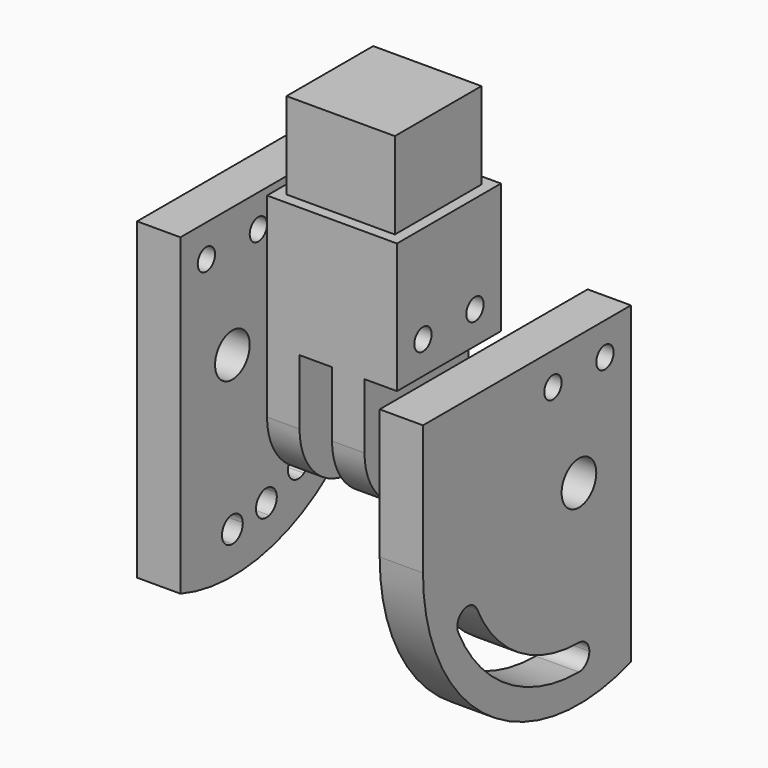
from build123d import *

# Parameters (mm, degrees)
F0_W      = 76.2
F0_H      = 76.2
F1_DEPTH  = 38.1
F2_DEPTH  = 19.05
F3_START  = -19.05
F3_DEPTH  = 19.05
F4_W      = 63.5
F4_H      = 63.5
F5_DEPTH  = 50.8
F7_START  = 50.8
F6_W      = 76.2
F6_H      = 38.1
F6_R      = 6.35
F7_DEPTH  = 25.4
F8_DEPTH  = 76.2
F10_START = 50.8
F9_W      = 76.2
F9_H      = 76.2
F9_R      = 6.35
F10_DEPTH = 25.4


with BuildPart() as f1:
    # F0 (on Right) → F1 (new body, symmetric)
    with BuildSketch(Plane.YZ):
        with Locations((0, 19.05)):
            Rectangle(F0_W, F0_H)
    extrude(amount=F1_DEPTH, both=True)

    # F0 (on Right) → F2 (join)
    with BuildSketch(Plane.YZ):
        with BuildLine():
            Line((6.35, -57.15), (38.1, -57.15))
            Line((38.1, -57.15), (38.1, -19.05))
            Line((38.1, -19.05), (-38.1, -19.05))
            Line((-38.1, -19.05), (-38.1, -57.15))
            Line((-38.1, -57.15), (-6.35, -57.15))
            ThreePointArc((-6.35, -57.15), (0, -50.8), (6.35, -57.15))
        make_face()
        with BuildLine():
            ThreePointArc((-38.1, -57.15), (0, -95.25), (38.1, -57.15))
            Line((38.1, -57.15), (6.35, -57.15))
            ThreePointArc((6.35, -57.15), (0, -63.5), (-6.35, -57.15))
            Line((-6.35, -57.15), (-38.1, -57.15))
        make_face()
    extrude(amount=F2_DEPTH)

    # F0 (on Right) → F3 (join)
    with BuildSketch(Plane.YZ.offset(F3_START)):
        with BuildLine():
            Line((6.35, -57.15), (38.1, -57.15))
            Line((38.1, -57.15), (38.1, -19.05))
            Line((38.1, -19.05), (-38.1, -19.05))
            Line((-38.1, -19.05), (-38.1, -57.15))
            Line((-38.1, -57.15), (-6.35, -57.15))
            ThreePointArc((-6.35, -57.15), (0, -50.8), (6.35, -57.15))
        make_face()
        with BuildLine():
            ThreePointArc((-38.1, -57.15), (0, -95.25), (38.1, -57.15))
            Line((38.1, -57.15), (6.35, -57.15))
            ThreePointArc((6.35, -57.15), (0, -63.5), (-6.35, -57.15))
            Line((-6.35, -57.15), (-38.1, -57.15))
        make_face()
    extrude(amount=-F3_DEPTH)

    # F4 (on face) → F5 (join)
    with BuildSketch(Plane.XY.offset(57.15)):
        Rectangle(F4_W, F4_H)
    extrude(amount=F5_DEPTH)

    # F6 (on face) → F8 (cut)
    with BuildSketch(Plane.YZ.offset(38.1)):
        with Locations((19.05, 0)):
            Circle(F6_R)
        with Locations((-19.05, 0)):
            Circle(F6_R)
    extrude(amount=-F8_DEPTH, mode=Mode.SUBTRACT)


with BuildPart() as f7:
    # F6 (on face) → F7 (new body)
    with BuildSketch(Plane.YZ.offset(38.1).offset(F7_START)):
        with BuildLine():
            Line((-38.1, -19.05), (-38.1, 19.05))
            Line((-38.1, 19.05), (-114.3, 19.05))
            Line((-114.3, 19.05), (-114.3, -57.15))
            Line((-114.3, -57.15), (-12.7, -57.15))
            ThreePointArc((-12.7, -57.15), (0, -44.45), (12.7, -57.15))
            Line((12.7, -57.15), (38.1, -57.15))
            Line((38.1, -57.15), (38.1, -19.05))
            Line((38.1, -19.05), (-38.1, -19.05))
        make_face()
        Rectangle(F6_W, F6_H)
        with Locations((-19.05, 0)):
            Circle(F6_R, mode=Mode.SUBTRACT)
        with Locations((19.05, 0)):
            Circle(F6_R, mode=Mode.SUBTRACT)
        with BuildLine():
            Line((38.1, -164.9130734528), (38.1, -57.15))
            Line((38.1, -57.15), (12.7, -57.15))
            ThreePointArc((12.7, -57.15), (0, -69.85), (-12.7, -57.15))
            Line((-12.7, -57.15), (-114.3, -57.15))
            ThreePointArc((-114.3, -57.15), (-65.9911357684, -150.4755592), (38.1, -164.9130734528))
        make_face()
        with BuildLine():
            ThreePointArc((0, -139.5505859333), (5.3881536726, -141.7824322606), (7.62, -147.1705859333))
            ThreePointArc((7.62, -147.1705859333), (5.3881536726, -152.5587396059), (0, -154.7905859333))
            ThreePointArc((0, -154.7905859333), (-52.4341526223, -139.5171273032), (-88.4642484023, -98.4750623231))
            ThreePointArc((-88.4642484023, -98.4750623231), (-84.7854441992, -88.3461334738), (-74.6565153498, -92.0249376769))
            ThreePointArc((-74.6565153498, -92.0249376769), (-44.2500918823, -126.6610489818), (0, -139.5505859333))
        make_face(mode=Mode.SUBTRACT)
    extrude(amount=F7_DEPTH)


with BuildPart() as f10:
    # F9 (on face) → F10 (new body)
    with BuildSketch(Plane(origin=(-38.1, 0, 0), x_dir=(0, -1, 0), z_dir=(-1, 0, 0)).offset(F10_START)):
        with BuildLine():
            Line((38.1, -164.9130734528), (38.1, -57.15))
            ThreePointArc((38.1, -57.15), (0, -95.25), (-38.1, -57.15))
            Line((-38.1, -57.15), (-114.3, -57.15))
            ThreePointArc((-114.3, -57.15), (-65.9911357684, -150.4755592), (38.1, -164.9130734528))
        make_face()
        with BuildLine():
            ThreePointArc((0, -139.5505859333), (5.3881536726, -141.7824322606), (7.62, -147.1705859333))
            ThreePointArc((7.62, -147.1705859333), (5.3881536726, -152.5587396059), (0, -154.7905859333))
            ThreePointArc((0, -154.7905859333), (-13.6547517033, -153.8310828307), (-27.0411359752, -150.971431382))
            ThreePointArc((-27.0411359752, -150.971431382), (-40.148233376, -146.1545132461), (-52.4341525835, -139.5171273279))
            ThreePointArc((-52.4341525835, -139.5171273279), (-65.1530955384, -129.8738486547), (-76.1309817391, -118.2872034103))
            ThreePointArc((-76.1309817391, -118.2872034103), (-82.8916623065, -108.7509335327), (-88.4642484023, -98.4750623231))
            ThreePointArc((-88.4642484023, -98.4750623231), (-84.7854441992, -88.3461334738), (-74.6565153498, -92.0249376769))
            ThreePointArc((-74.6565153498, -92.0249376769), (-69.9537130966, -100.6969239573), (-64.2482572577, -108.7447478092))
            ThreePointArc((-64.2482572577, -108.7447478092), (-54.9838287437, -118.5229186109), (-44.2500922915, -126.6610487213))
            ThreePointArc((-44.2500922915, -126.6610487213), (-33.8817914002, -132.2624541847), (-22.8204839226, -136.3275351706))
            ThreePointArc((-22.8204839226, -136.3275351706), (-11.5234819247, -138.7408446241), (0, -139.5505859333))
        make_face(mode=Mode.SUBTRACT)
        with BuildLine():
            ThreePointArc((-88.4642484023, -98.4750623231), (-82.8916623065, -108.7509335327), (-76.1309817391, -118.2872034103))
            ThreePointArc((-76.1309817391, -118.2872034103), (-77.745354181, -112.5284154235), (-74.7051121262, -107.3780012939))
            ThreePointArc((-74.7051121262, -107.3780012939), (-76.4226877427, -104.7239286789), (-78.0460125131, -102.0111839186))
            ThreePointArc((-78.0460125131, -102.0111839186), (-84.0095065645, -102.4656904216), (-88.4642484023, -98.4750623231))
        make_face()
        with BuildLine():
            ThreePointArc((-74.7051121262, -107.3780012939), (-69.2020593767, -105.9602409234), (-64.2482572577, -108.7447478092))
            ThreePointArc((-64.2482572577, -108.7447478092), (-69.9537130966, -100.6969239573), (-74.6565153498, -92.0249376769))
            ThreePointArc((-74.6565153498, -92.0249376769), (-74.1215693724, -93.5981923432), (-73.9403818761, -95.25))
            ThreePointArc((-73.9403818761, -95.25), (-75.0471685928, -99.2050540739), (-78.0460125131, -102.0111839186))
            ThreePointArc((-78.0460125131, -102.0111839186), (-76.4226877427, -104.7239286789), (-74.7051121262, -107.3780012939))
        make_face()
        with BuildLine():
            ThreePointArc((-76.1309817391, -118.2872034103), (-65.1530955384, -129.8738486547), (-52.4341525835, -139.5171273279))
            ThreePointArc((-52.4341525835, -139.5171273279), (-55.8142312826, -134.5830716226), (-54.5912119147, -128.7286663291))
            ThreePointArc((-54.5912119147, -128.7286663291), (-60.0684621173, -124.1983836541), (-65.171206772, -119.250078097))
            ThreePointArc((-65.171206772, -119.250078097), (-70.856508475, -121.1067369272), (-76.1309817391, -118.2872034103))
        make_face()
        with BuildLine():
            ThreePointArc((-54.5912119147, -128.7286663291), (-49.8361059477, -125.6169791552), (-44.2500922915, -126.6610487213))
            ThreePointArc((-44.2500922915, -126.6610487213), (-54.9838287437, -118.5229186109), (-64.2482572577, -108.7447478092))
            ThreePointArc((-64.2482572577, -108.7447478092), (-63.001518977, -110.9870212595), (-62.569619596, -113.5159754882))
            ThreePointArc((-62.569619596, -113.5159754882), (-63.250429956, -116.664315867), (-65.171206772, -119.250078097))
            ThreePointArc((-65.171206772, -119.250078097), (-60.0684621173, -124.1983836541), (-54.5912119147, -128.7286663291))
        make_face()
        with BuildLine():
            ThreePointArc((-52.4341525835, -139.5171273279), (-40.148233376, -146.1545132461), (-27.0411359752, -150.971431382))
            ThreePointArc((-27.0411359752, -150.971431382), (-31.6769428237, -147.1926579159), (-32.156880188, -141.2311569161))
            ThreePointArc((-32.156880188, -141.2311569161), (-37.015012093, -139.2084838485), (-41.7466532468, -136.9053937641))
            ThreePointArc((-41.7466532468, -136.9053937641), (-46.5332305056, -140.4912709725), (-52.4341525835, -139.5171273279))
        make_face()
        with BuildLine():
            ThreePointArc((-32.156880188, -141.2311569161), (-28.4739844377, -136.9033503077), (-22.8204839226, -136.3275351706))
            ThreePointArc((-22.8204839226, -136.3275351706), (-33.8817914002, -132.2624541847), (-44.2500922915, -126.6610487213))
            ThreePointArc((-44.2500922915, -126.6610487213), (-41.6620897561, -129.4228140325), (-40.7221222523, -133.0890881425))
            ThreePointArc((-40.7221222523, -133.0890881425), (-40.9827108009, -135.0648065154), (-41.7466532468, -136.9053937641))
            ThreePointArc((-41.7466532468, -136.9053937641), (-37.015012093, -139.2084838485), (-32.156880188, -141.2311569161))
        make_face()
        with BuildLine():
            ThreePointArc((-27.0411359752, -150.971431382), (-13.6547517033, -153.8310828307), (0, -154.7905859333))
            ThreePointArc((0, -154.7905859333), (-5.5009952504, -152.4434837376), (-7.6131721201, -146.8480797009))
            ThreePointArc((-7.6131721201, -146.8480797009), (-12.5891166022, -146.2859637573), (-17.5261054923, -145.4480266939))
            ThreePointArc((-17.5261054923, -145.4480266939), (-21.1052888672, -150.2396117394), (-27.0411359752, -150.971431382))
        make_face()
        with BuildLine():
            ThreePointArc((-7.6131721201, -146.8480797009), (-5.2728978043, -141.6695906828), (0, -139.5505859333))
            ThreePointArc((0, -139.5505859333), (-11.5234819247, -138.7408446241), (-22.8204839226, -136.3275351706))
            ThreePointArc((-22.8204839226, -136.3275351706), (-18.8420871271, -139.0677959975), (-17.3108095377, -143.6494833948))
            ThreePointArc((-17.3108095377, -143.6494833948), (-17.3648249743, -144.5551751673), (-17.5261054923, -145.4480266939))
            ThreePointArc((-17.5261054923, -145.4480266939), (-12.5891166022, -146.2859637573), (-7.6131721201, -146.8480797009))
        make_face()
        with BuildLine():
            ThreePointArc((-38.1, -57.15), (0, -95.25), (38.1, -57.15))
            Line((38.1, -57.15), (12.7, -57.15))
            ThreePointArc((12.7, -57.15), (0, -69.85), (-12.7, -57.15))
            Line((-12.7, -57.15), (-38.1, -57.15))
        make_face()
        with Locations((-76.2, -19.05)):
            Rectangle(F9_W, F9_H)
        with BuildLine():
            Line((38.1, -57.15), (38.1, 19.05))
            Line((38.1, 19.05), (-38.1, 19.05))
            Line((-38.1, 19.05), (-38.1, -57.15))
            Line((-38.1, -57.15), (-12.7, -57.15))
            ThreePointArc((-12.7, -57.15), (0, -44.45), (12.7, -57.15))
            Line((12.7, -57.15), (38.1, -57.15))
        make_face()
        with Locations((-19.05, 0)):
            Circle(F9_R, mode=Mode.SUBTRACT)
        with Locations((19.05, 0)):
            Circle(F9_R, mode=Mode.SUBTRACT)
    extrude(amount=F10_DEPTH)


solid = Compound([f1.part, f7.part, f10.part])
